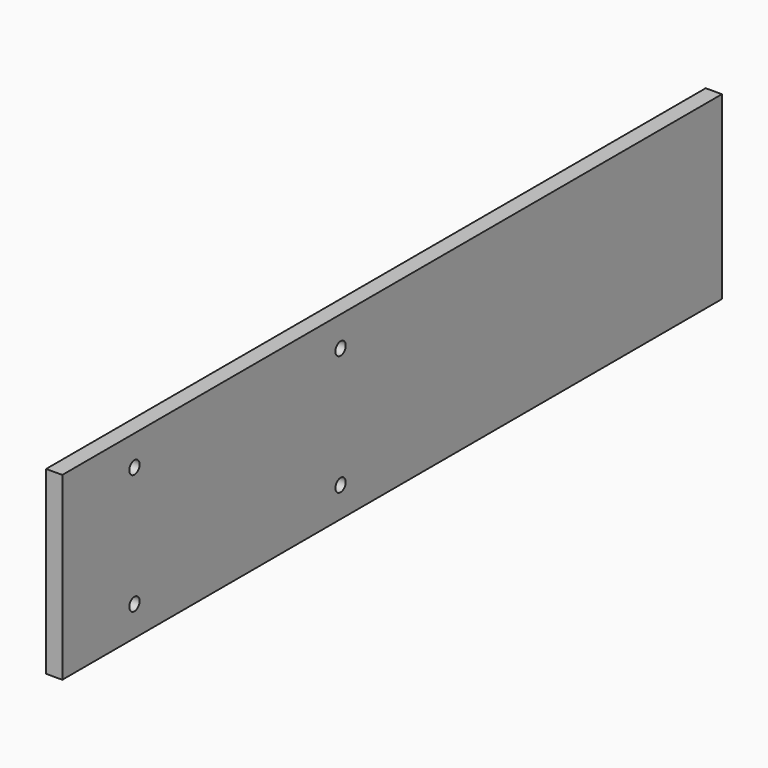
from build123d import *

# Parameters (mm, degrees)
F0_W     = 609.6
F0_H     = 133.35
F1_DEPTH = 5.9944
F2_R     = 4.7625
F3_DEPTH = 11.9888


with BuildPart() as f1:
    # F0 (on Right) → F1 (new body, symmetric)
    with BuildSketch(Plane.YZ):
        Rectangle(F0_W, F0_H)
    extrude(amount=F1_DEPTH, both=True)

    # F2 (on face) → F3 (cut, through all)
    with BuildSketch(Plane.YZ.offset(5.9944)):
        with Locations((-238.125, -44.45)):
            Circle(F2_R)
        with Locations((-47.625, -44.45)):
            Circle(F2_R)
        with Locations((-47.625, 44.45)):
            Circle(F2_R)
        with Locations((-238.125, 44.45)):
            Circle(F2_R)
    extrude(amount=-F3_DEPTH, mode=Mode.SUBTRACT)


solid = f1.part
